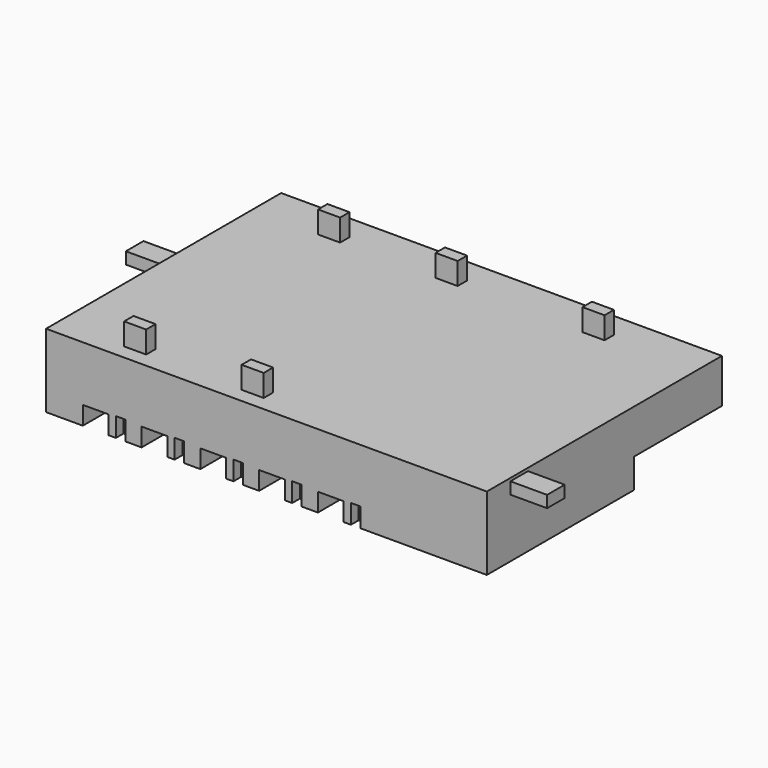
from build123d import *

# Parameters (mm, degrees)
BOX011_W     = 3048
BOX011_H     = 4572
BOX011_DEPTH = 1219.2
BOX006_W     = 1066.8
BOX006_H     = 1981.2
BOX006_DEPTH = 762
BOX005_W     = 396.24
BOX005_H     = 396.24
BOX005_DEPTH = 798.576
BOX007_W     = 1066.8
BOX007_H     = 1981.2
BOX007_DEPTH = 762
BOX008_W     = 396.24
BOX008_H     = 396.24
BOX008_DEPTH = 798.576
BOX010_W     = 1066.8
BOX010_H     = 1981.2
BOX010_DEPTH = 762
BOX009_W     = 396.24
BOX009_H     = 396.24
BOX009_DEPTH = 798.576
BOX001_W     = 1066.8
BOX001_H     = 1981.2
BOX001_DEPTH = 762
BOX002_W     = 396.24
BOX002_H     = 396.24
BOX002_DEPTH = 798.576
BOX003_W     = 1066.8
BOX003_H     = 1981.2
BOX003_DEPTH = 762
BOX004_W     = 396.24
BOX004_H     = 396.24
BOX004_DEPTH = 798.576
BOX012_W     = 2438.4
BOX012_H     = 914.4
BOX012_DEPTH = 487.68
BOX013_W     = 2438.4
BOX013_H     = 914.4
BOX013_DEPTH = 487.68
BOX016_W     = 914.4
BOX016_H     = 487.68
BOX016_DEPTH = 1219.2
BOX017_W     = 914.4
BOX017_H     = 487.68
BOX017_DEPTH = 1219.2
BOX018_W     = 914.4
BOX018_H     = 487.68
BOX018_DEPTH = 1219.2
BOX019_W     = 914.4
BOX019_H     = 487.68
BOX019_DEPTH = 1219.2
BOX014_W     = 914.4
BOX014_H     = 487.68
BOX014_DEPTH = 1219.2
BOX_W        = 18288
BOX_H        = 12192
BOX_DEPTH    = 3048


with BuildPart() as nurse_station:
    # Box011 → Box011 (new body)
    with BuildSketch(Plane(origin=(15240, 7620, 0), x_dir=(1, 0, 0), z_dir=(0, 0, 1))):
        with Locations((1524, 2286)):
            Rectangle(BOX011_W, BOX011_H)
    extrude(amount=BOX011_DEPTH)


with BuildPart() as box006:
    # Box006 → Box006 (new body)
    with BuildSketch(Plane.XY):
        with Locations((533.4, 990.6)):
            Rectangle(BOX006_W, BOX006_H)
    extrude(amount=BOX006_DEPTH)


with BuildPart() as fusion002:
    # Box005 → Box005 (new body)
    with BuildSketch(Plane(origin=(1371.6, 0, 0), x_dir=(1, 0, 0), z_dir=(0, 0, 1))):
        with Locations((198.12, 198.12)):
            Rectangle(BOX005_W, BOX005_H)
    extrude(amount=BOX005_DEPTH)

    # Fusion002: union Box006
    add(box006.part)


with BuildPart() as fusion002_1:
    # Fusion002 placement: moved
    add(fusion002.part.moved(Location((4876.8, 0, 0))))


with BuildPart() as box007:
    # Box007 → Box007 (new body)
    with BuildSketch(Plane.XY):
        with Locations((533.4, 990.6)):
            Rectangle(BOX007_W, BOX007_H)
    extrude(amount=BOX007_DEPTH)


with BuildPart() as fusion003:
    # Box008 → Box008 (new body)
    with BuildSketch(Plane(origin=(1371.6, 0, 0), x_dir=(1, 0, 0), z_dir=(0, 0, 1))):
        with Locations((198.12, 198.12)):
            Rectangle(BOX008_W, BOX008_H)
    extrude(amount=BOX008_DEPTH)

    # Fusion003: union Box007
    add(box007.part)


with BuildPart() as fusion003_1:
    # Fusion003 placement: moved
    add(fusion003.part.moved(Location((7315.2, 0, 0))))


with BuildPart() as box010:
    # Box010 → Box010 (new body)
    with BuildSketch(Plane.XY):
        with Locations((533.4, 990.6)):
            Rectangle(BOX010_W, BOX010_H)
    extrude(amount=BOX010_DEPTH)


with BuildPart() as fusion004:
    # Box009 → Box009 (new body)
    with BuildSketch(Plane(origin=(1371.6, 0, 0), x_dir=(1, 0, 0), z_dir=(0, 0, 1))):
        with Locations((198.12, 198.12)):
            Rectangle(BOX009_W, BOX009_H)
    extrude(amount=BOX009_DEPTH)

    # Fusion004: union Box010
    add(box010.part)


with BuildPart() as fusion004_1:
    # Fusion004 placement: moved
    add(fusion004.part.moved(Location((9753.6, 0, 0))))


with BuildPart() as box001:
    # Box001 → Box001 (new body)
    with BuildSketch(Plane.XY):
        with Locations((533.4, 990.6)):
            Rectangle(BOX001_W, BOX001_H)
    extrude(amount=BOX001_DEPTH)


with BuildPart() as fusion:
    # Box002 → Box002 (new body)
    with BuildSketch(Plane(origin=(1371.6, 0, 0), x_dir=(1, 0, 0), z_dir=(0, 0, 1))):
        with Locations((198.12, 198.12)):
            Rectangle(BOX002_W, BOX002_H)
    extrude(amount=BOX002_DEPTH)

    # Fusion: union Box001
    add(box001.part)


with BuildPart() as box003:
    # Box003 → Box003 (new body)
    with BuildSketch(Plane.XY):
        with Locations((533.4, 990.6)):
            Rectangle(BOX003_W, BOX003_H)
    extrude(amount=BOX003_DEPTH)


with BuildPart() as right_beds:
    # Box004 → Box004 (new body)
    with BuildSketch(Plane(origin=(1371.6, 0, 0), x_dir=(1, 0, 0), z_dir=(0, 0, 1))):
        with Locations((198.12, 198.12)):
            Rectangle(BOX004_W, BOX004_H)
    extrude(amount=BOX004_DEPTH)

    # Fusion001: union Box003
    add(box003.part)


with BuildPart() as right_beds_1:
    # Fusion001 placement: moved
    add(right_beds.part.moved(Location((2438.4, 0, 0))))

    # Fusion005: union Fusion002, Fusion003, Fusion004, Fusion
    add(fusion002_1.part)
    add(fusion003_1.part)
    add(fusion004_1.part)
    add(fusion.part)


with BuildPart() as surfaces:
    # Part__Mirroring: instance of right beds
    add(right_beds_1.part.mirror(Plane(origin=(0, 6096, 0), x_dir=(1, 0, 0), z_dir=(0, 1, 0))))

    # Fusion006: union right beds
    add(right_beds_1.part)


with BuildPart() as surfaces_1:
    # Fusion006 placement: moved
    add(surfaces.part.moved(Location((1524, 0, 0))))

    # Fusion010: union Nurse Station
    add(nurse_station.part)


with BuildPart() as main_inlet:
    # Box012 → Box012 (new body)
    with BuildSketch(Plane(origin=(17373.6, 1219.2, 2438.4), x_dir=(1, 0, 0), z_dir=(0, 0, 1))):
        with Locations((1219.2, 457.2)):
            Rectangle(BOX012_W, BOX012_H)
    extrude(amount=BOX012_DEPTH)


with BuildPart() as main_ducts:
    # Box013 → Box013 (new body)
    with BuildSketch(Plane(origin=(-1524, 6040.43496, 2438.4), x_dir=(1, 0, 0), z_dir=(0, 0, 1))):
        with Locations((1219.2, 457.2)):
            Rectangle(BOX013_W, BOX013_H)
    extrude(amount=BOX013_DEPTH)

    # Fusion007: union main inlet
    add(main_inlet.part)


with BuildPart() as branch002:
    # Box016 → Box016 (new body)
    with BuildSketch(Plane(origin=(7924.8, 609.6, 2743.2), x_dir=(1, 0, 0), z_dir=(0, 0, 1))):
        with Locations((457.2, 243.84)):
            Rectangle(BOX016_W, BOX016_H)
    extrude(amount=BOX016_DEPTH)


with BuildPart() as branch003:
    # Box017 → Box017 (new body)
    with BuildSketch(Plane(origin=(7924.8, 10668, 2743.2), x_dir=(1, 0, 0), z_dir=(0, 0, 1))):
        with Locations((457.2, 243.84)):
            Rectangle(BOX017_W, BOX017_H)
    extrude(amount=BOX017_DEPTH)


with BuildPart() as branch004:
    # Box018 → Box018 (new body)
    with BuildSketch(Plane(origin=(3048, 609.6, 2743.2), x_dir=(1, 0, 0), z_dir=(0, 0, 1))):
        with Locations((457.2, 243.84)):
            Rectangle(BOX018_W, BOX018_H)
    extrude(amount=BOX018_DEPTH)


with BuildPart() as branch005:
    # Box019 → Box019 (new body)
    with BuildSketch(Plane(origin=(3048, 10668, 2743.2), x_dir=(1, 0, 0), z_dir=(0, 0, 1))):
        with Locations((457.2, 243.84)):
            Rectangle(BOX019_W, BOX019_H)
    extrude(amount=BOX019_DEPTH)


with BuildPart() as vents:
    # Box014 → Box014 (new body)
    with BuildSketch(Plane(origin=(14020.8, 10668, 2743.2), x_dir=(1, 0, 0), z_dir=(0, 0, 1))):
        with Locations((457.2, 243.84)):
            Rectangle(BOX014_W, BOX014_H)
    extrude(amount=BOX014_DEPTH)

    # Fusion008: union branch002, branch003, branch004, branch005
    add(branch002.part)
    add(branch003.part)
    add(branch004.part)
    add(branch005.part)


with BuildPart() as vents_1:
    # Fusion008 placement: moved
    add(vents.part.moved(Location((-297.72864, 0, 0))))

    # Fusion009: union main_ducts
    add(main_ducts.part)


with BuildPart() as cut:
    # Box → Box (new body)
    with BuildSketch(Plane.XY):
        with Locations((9144, 6096)):
            Rectangle(BOX_W, BOX_H)
    extrude(amount=BOX_DEPTH)

    # Fusion011: union vents
    add(vents_1.part)

    # Cut: cut surfaces
    add(surfaces_1.part, mode=Mode.SUBTRACT)


solid = cut.part
